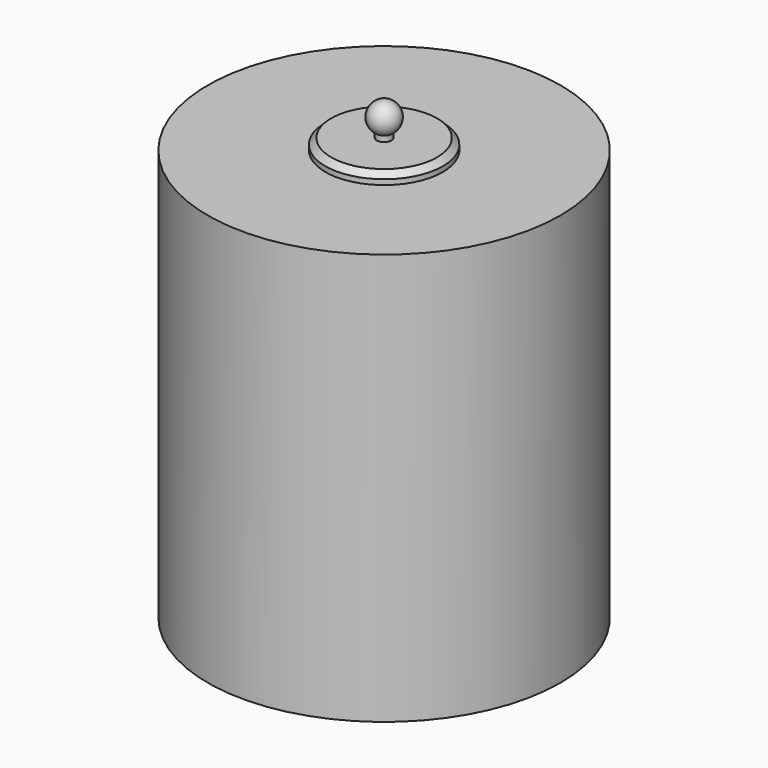
from build123d import *

# Parameters (mm, degrees)
F2_W      = 44.45
F2_H      = 9.525
F8_W      = 6.35
F8_H      = 6.7640505731
F10_R     = 107.95
F10_R_2   = 101.6
F10_R_3   = 95.25
F10_R_4   = 3.175
F11_DEPTH = 3.175
F12_SIZE  = 5.08
F15_W     = 50.8
F15_H     = 50.8
F15_R     = 6.35
F16_DEPTH = 6.35
F17_R     = 146.05
F17_R_2   = 3.175
F18_DEPTH = 12.7


with BuildPart() as f1:
    # F0 (on Front) → F1 (revolve)
    with BuildSketch(Plane.XZ):
        Polygon((152.4, 0), (6.35, 0), (6.35, -19.05), (146.05, -19.05), (146.05, -349.25), (146.05, -355.6), (152.4, -355.6), align=None)
    revolve(axis=Axis((0, 0, -377.825), (0, 0, 1)))


with BuildPart() as f3:
    # F2 (on Front) → F3 (revolve)
    with BuildSketch(Plane.XZ):
        with Locations((28.575, 4.7625)):
            Rectangle(F2_W, F2_H)
    revolve(axis=Axis((0, 0, 6.35), (0, 0, -1)))

    # F12
    f12_edges = [f3.edges().sort_by_distance(p)[0] for p in [
        (-50.8, 0, 9.525),
    ]]
    chamfer(f12_edges, length=F12_SIZE)


with BuildPart() as f5:
    # F4 (on Front) → F5 (revolve)
    with BuildSketch(Plane.XZ):
        with BuildLine():
            Line((6.35, 0), (0, 0))
            Line((0, 0), (0, -81.28))
            Line((0, -81.28), (0, -132.08))
            ThreePointArc((0, -132.08), (25.1975542852, -109.8805090291), (6.35, -82.0865557516))
            Line((6.35, -82.0865557516), (6.35, 0))
        make_face()
        with BuildLine():
            Line((0, 38.1), (0, 0))
            Line((0, 0), (6.35, 0))
            Line((6.35, 0), (6.35, 14.4014773719))
            ThreePointArc((6.35, 14.4014773719), (12.2672579939, 28.6870018728), (0, 38.1))
        make_face()
    revolve(axis=Axis((0, 0, -40.64), (0, 0, -1)))


with BuildPart() as f7:
    # F6 (on Front) → F7 (revolve)
    with BuildSketch(Plane.XZ):
        Polygon((101.6, -69.85), (6.35, -69.85), (6.35, -76.2), (95.25, -76.2), (95.25, -285.75), (101.6, -285.75), align=None)
    revolve(axis=Axis((0, 0, -73.025), (0, 0, 1)))


with BuildPart() as f9:
    # F8 (on Front) → F9 (revolve)
    with BuildSketch(Plane.XZ):
        with Locations((9.525, -66.4679747134)):
            Rectangle(F8_W, F8_H)
    revolve(axis=Axis((0, 0, -73.778109625), (0, 0, -1)))


with BuildPart() as f9b:
    # F8 (on Front) → F9, piece 2 (revolve)
    with BuildSketch(Plane.XZ):
        with Locations((9.525, -79.5820252866)):
            Rectangle(F8_W, F8_H)
    revolve(axis=Axis((0, 0, -73.778109625), (0, 0, -1)))


with BuildPart() as f11:
    # F10 (on face) → F11 (new body)
    with BuildSketch(Plane(origin=(0, 0, -285.75), x_dir=(1, 0, 0), z_dir=(0, 0, -1))):
        Circle(F10_R)
        Circle(F10_R_2, mode=Mode.SUBTRACT)
        Circle(F10_R_2)
        Circle(F10_R_3, mode=Mode.SUBTRACT)
        Circle(F10_R_3)
        Circle(F10_R_4, mode=Mode.SUBTRACT)
    extrude(amount=F11_DEPTH)


with BuildPart() as f14:
    # F13 (on Front) → F14 (revolve)
    with BuildSketch(Plane.XZ):
        Polygon((11.2173510715, -282.575), (0, -282.575), (0, -368.3), (3.175, -368.3), (3.175, -285.75), (11.2173510715, -285.75), align=None)
    revolve(axis=Axis((0, 0, -325.4375), (0, 0, 1)))


with BuildPart() as f16:
    # F15 (on face) → F16 (new body)
    with BuildSketch(Plane(origin=(0, 0, -19.05), x_dir=(1, 0, 0), z_dir=(0, 0, -1))):
        Rectangle(F15_W, F15_H)
        Circle(F15_R, mode=Mode.SUBTRACT)
    extrude(amount=F16_DEPTH)


with BuildPart() as f18:
    # F17 (on face) → F18 (new body)
    with BuildSketch(Plane(origin=(0, 0, -355.6), x_dir=(1, 0, 0), z_dir=(0, 0, -1))):
        Circle(F17_R)
        Circle(F17_R_2, mode=Mode.SUBTRACT)
    extrude(amount=-F18_DEPTH)


solid = Compound([f1.part, f3.part, f5.part, f7.part, f9.part, f9b.part, f11.part, f14.part, f16.part, f18.part])
